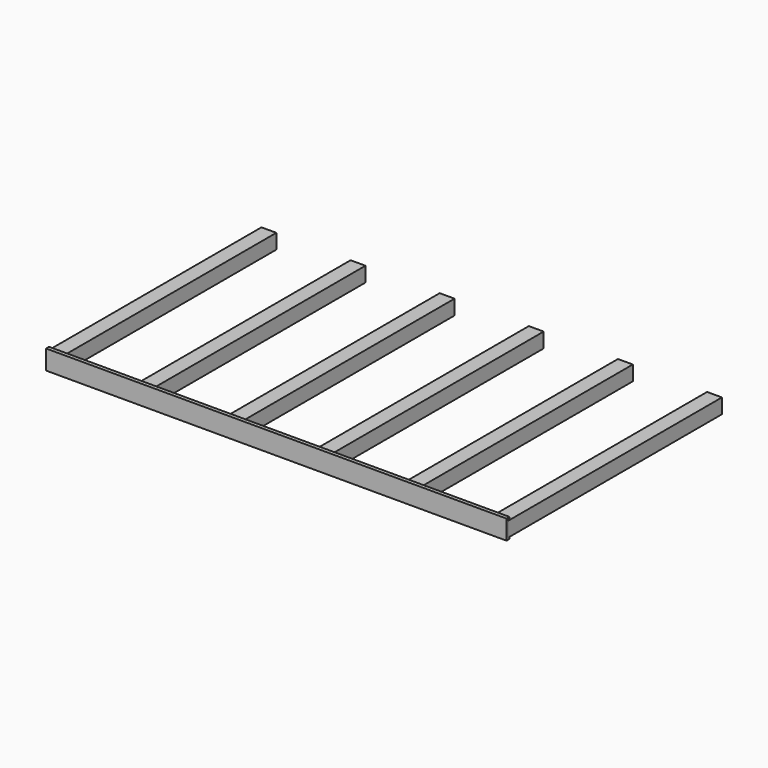
from build123d import *

# Parameters (mm, degrees)
F0_W     = 25.4
F0_H     = 25.4
F0_W_2   = 22.352
F0_H_2   = 22.352
F1_DEPTH = 457.2
F3_DEPTH = 787.4


with BuildPart() as f1:
    # F0 (on Front) → F1 (new body)
    with BuildSketch(Plane.XZ):
        with Locations((12.7, -12.7)):
            Rectangle(F0_W, F0_H)
        with Locations((12.7, -12.7)):
            Rectangle(F0_W_2, F0_H_2, mode=Mode.SUBTRACT)
        with Locations((165.1, -12.7)):
            Rectangle(F0_W, F0_H)
        with Locations((165.1, -12.7)):
            Rectangle(F0_W_2, F0_H_2, mode=Mode.SUBTRACT)
        with Locations((317.5, -12.7)):
            Rectangle(F0_W, F0_H)
        with Locations((317.5, -12.7)):
            Rectangle(F0_W_2, F0_H_2, mode=Mode.SUBTRACT)
        with Locations((469.9, -12.7)):
            Rectangle(F0_W, F0_H)
        with Locations((469.9, -12.7)):
            Rectangle(F0_W_2, F0_H_2, mode=Mode.SUBTRACT)
        with Locations((622.3, -12.7)):
            Rectangle(F0_W, F0_H)
        with Locations((622.3, -12.7)):
            Rectangle(F0_W_2, F0_H_2, mode=Mode.SUBTRACT)
        with Locations((774.7, -12.7)):
            Rectangle(F0_W, F0_H)
        with Locations((774.7, -12.7)):
            Rectangle(F0_W_2, F0_H_2, mode=Mode.SUBTRACT)
    extrude(amount=-F1_DEPTH)


with BuildPart() as f3:
    # F2 (on Right) → F3 (new body)
    with BuildSketch(Plane.YZ):
        Polygon((3.175, 1.524), (3.175, 4.699), (-3.175, 4.699), (-3.175, -28.575), (3.175, -28.575), (3.175, -25.4), (0, -25.4), (0, 1.524), align=None)
    extrude(amount=F3_DEPTH)


solid = Compound([f1.part, f3.part])
